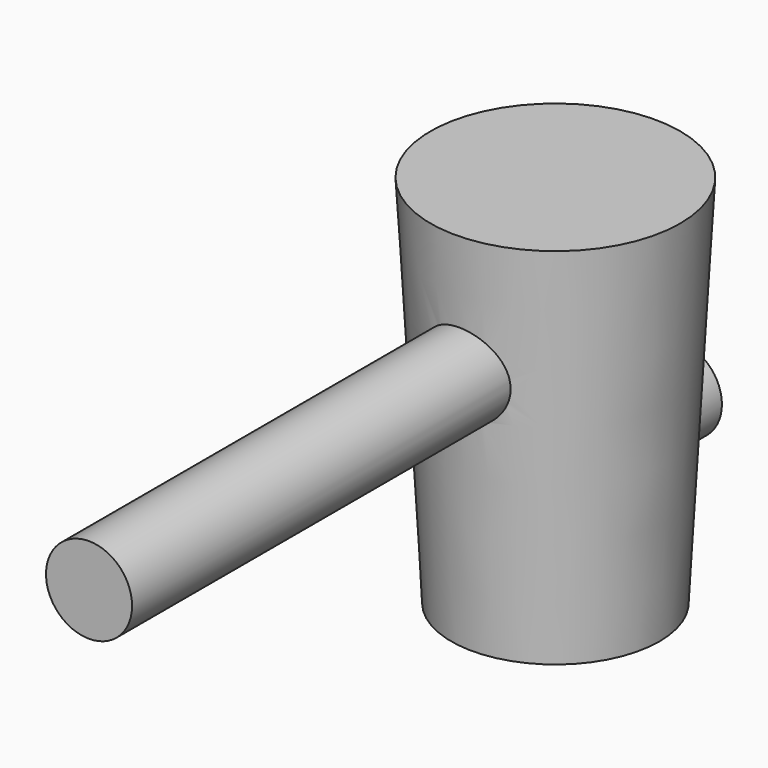
from build123d import *

# Parameters (mm, degrees)
F1_R     = 63.5
F2_R     = 76.2
F4_R     = 26.2509
F5_DEPTH = 355.6
F6_R     = 25.4
F7_DEPTH = 95.25


with BuildPart() as f3:
    # F1 (on Top) → F3 section 0
    with BuildSketch(Plane.XY):
        Circle(F1_R)
    # F2 (on offset) → F3 section 1
    with BuildSketch(Plane.XY.offset(228.6)):
        Circle(F2_R)
    loft()

    # F4 (on Front) → F5 (join)
    with BuildSketch(Plane.XZ):
        with Locations((0, 151.5491)):
            Circle(F4_R)
    extrude(amount=F5_DEPTH)

    # F6 (on Front) → F7 (join)
    with BuildSketch(Plane.XZ):
        with Locations((0, 76.2)):
            Circle(F6_R)
    extrude(amount=-F7_DEPTH)


solid = f3.part
